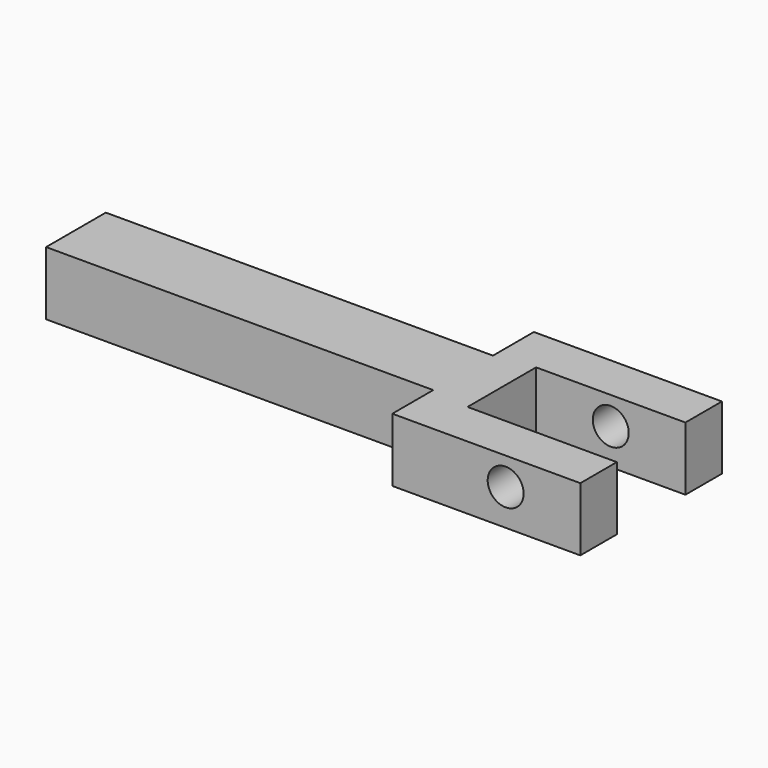
from build123d import *

# Parameters (mm, degrees)
F1_DEPTH = 5.75
F2_R     = 1.625
F3_DEPTH = 12.5


with BuildPart() as f1:
    # F0 (on Top) → F1 (new body)
    with BuildSketch(Plane.XY):
        Polygon((0, 3.375), (-35, 3.375), (-35, -3.375), (0, -3.375), (0, -8), (17, -8), (17, -3.875), (3.5, -3.875), (3.5, 3.875), (17, 3.875), (17, 8), (0, 8), align=None)
    extrude(amount=F1_DEPTH)

    # F2 (on Front) → F3 (cut, symmetric)
    with BuildSketch(Plane.XZ):
        with Locations((10.25, 3.25)):
            Circle(F2_R)
    extrude(amount=F3_DEPTH, both=True, mode=Mode.SUBTRACT)


solid = f1.part
